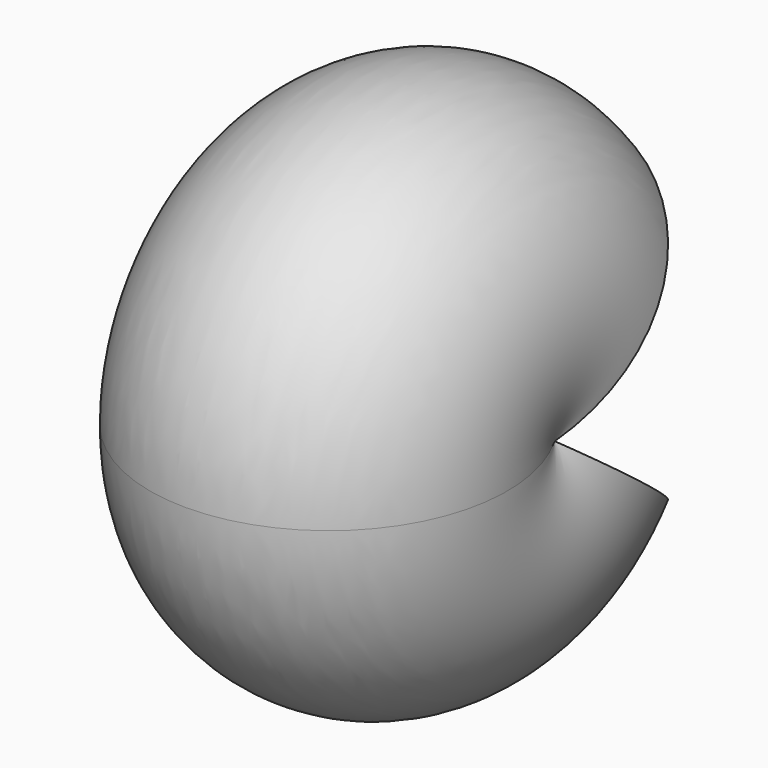
from build123d import *

# Parameters (mm, degrees)
F1_ANGLE = 285.173922


with BuildPart() as f1:
    # F0 (on Top) → F1 (revolve, symmetric)
    with BuildSketch(Plane.XY) as f1_sk:
        with BuildLine():
            Line((108.74375, 0), (-108.74375, 0))
            ThreePointArc((-108.74375, 0), (0, -187.887231), (108.74375, 0))
        make_face()
    revolve(axis=Axis((0, 0, 0), (1, 0, 0)), revolution_arc=F1_ANGLE / 2)
    revolve(f1_sk.sketch, axis=Axis((0, 0, 0), (-1, 0, 0)), revolution_arc=F1_ANGLE / 2)


solid = f1.part
